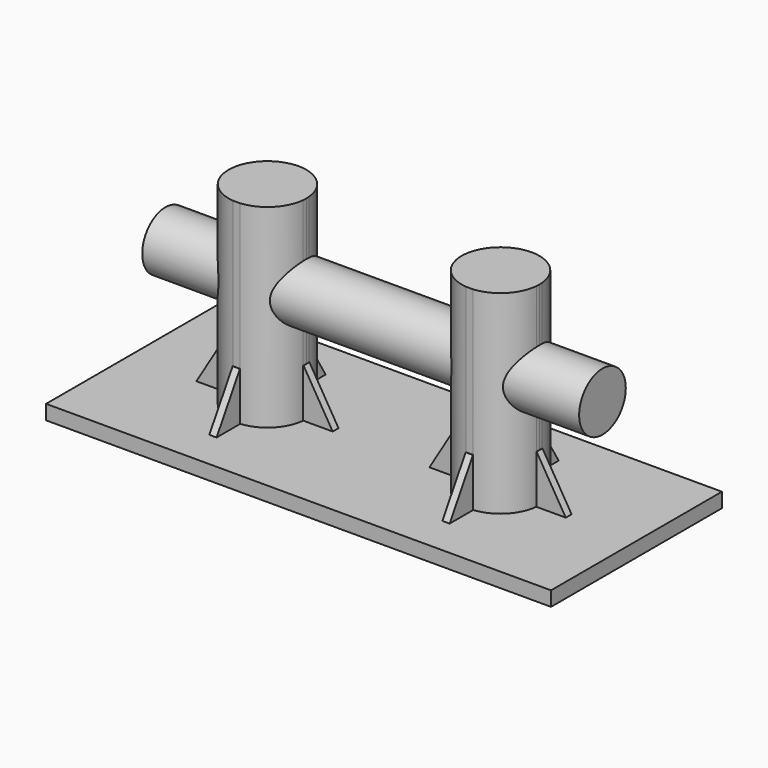
from build123d import *

# Parameters (mm, degrees)
F0_W          = 52
F0_H          = 22
F1_DEPTH      = 1.5
F2_DEPTH      = 20
F2_DEPTH_BACK = 5
F3_DEPTH      = 5
F3_DEPTH_BACK = 5
F4_SIZE2      = 3
F4_SIZE       = 5
F4_2_SIZE2    = 3
F4_2_SIZE     = 5
F4_3_SIZE2    = 3
F4_3_SIZE     = 5
F4_4_SIZE2    = 3
F4_4_SIZE     = 5
F5_SIZE2      = 3.5
F5_SIZE       = 3
F5_2_SIZE2    = 3.5
F5_2_SIZE     = 3
F5_3_SIZE2    = 3.5
F5_3_SIZE     = 3
F5_4_SIZE2    = 3.5
F5_4_SIZE     = 3
F6_SIZE2      = 3
F6_SIZE       = 3.5
F6_2_SIZE2    = 3
F6_2_SIZE     = 3.5
F6_3_SIZE2    = 3
F6_3_SIZE     = 3.5
F6_4_SIZE2    = 3
F6_4_SIZE     = 3.5
F7_SIZE2      = 5
F7_SIZE       = 3
F7_2_SIZE2    = 5
F7_2_SIZE     = 3
F7_3_SIZE2    = 5
F7_3_SIZE     = 3
F7_4_SIZE2    = 5
F7_4_SIZE     = 3
F8_R          = 3
F9_DEPTH      = 22.5


with BuildPart() as f1:
    # F0 (on Top) → F1 (new body)
    with BuildSketch(Plane.XY):
        Rectangle(F0_W, F0_H)
        with BuildLine():
            Line((-4.9823830805, 0.375), (-4.9823830805, 0))
            Line((-4.9823830805, 0), (-4.9823830805, -0.375))
            Line((-4.9823830805, -0.375), (-8.0176169195, -0.375))
            ThreePointArc((-8.0176169195, -0.375), (-9.1715728753, -2.8284271247), (-11.625, -3.9823830805))
            Line((-11.625, -3.9823830805), (-11.625, -7.0176169195))
            Line((-11.625, -7.0176169195), (-12.375, -7.0176169195))
            Line((-12.375, -7.0176169195), (-12.375, -3.9823830805))
            ThreePointArc((-12.375, -3.9823830805), (-14.8284271247, -2.8284271247), (-15.9823830805, -0.375))
            Line((-15.9823830805, -0.375), (-19.0176169195, -0.375))
            Line((-19.0176169195, -0.375), (-19.0176169195, 0.375))
            Line((-19.0176169195, 0.375), (-15.9823830805, 0.375))
            ThreePointArc((-15.9823830805, 0.375), (-14.8284271247, 2.8284271247), (-12.375, 3.9823830805))
            Line((-12.375, 3.9823830805), (-12.375, 7.0176169195))
            Line((-12.375, 7.0176169195), (-11.625, 7.0176169195))
            Line((-11.625, 7.0176169195), (-11.625, 3.9823830805))
            ThreePointArc((-11.625, 3.9823830805), (-9.1715728753, 2.8284271247), (-8.0176169195, 0.375))
            Line((-8.0176169195, 0.375), (-4.9823830805, 0.375))
        make_face(mode=Mode.SUBTRACT)
        with BuildLine():
            Line((4.9823830805, -0.375), (4.9823830805, 0))
            Line((4.9823830805, 0), (4.9823830805, 0.375))
            Line((4.9823830805, 0.375), (8.0176169195, 0.375))
            ThreePointArc((8.0176169195, 0.375), (9.1715728753, 2.8284271247), (11.625, 3.9823830805))
            Line((11.625, 3.9823830805), (11.625, 7.0176169195))
            Line((11.625, 7.0176169195), (12.375, 7.0176169195))
            Line((12.375, 7.0176169195), (12.375, 3.9823830805))
            ThreePointArc((12.375, 3.9823830805), (14.8284271247, 2.8284271247), (15.9823830805, 0.375))
            Line((15.9823830805, 0.375), (19.0176169195, 0.375))
            Line((19.0176169195, 0.375), (19.0176169195, -0.375))
            Line((19.0176169195, -0.375), (15.9823830805, -0.375))
            ThreePointArc((15.9823830805, -0.375), (14.8284271247, -2.8284271247), (12.375, -3.9823830805))
            Line((12.375, -3.9823830805), (12.375, -7.0176169195))
            Line((12.375, -7.0176169195), (11.625, -7.0176169195))
            Line((11.625, -7.0176169195), (11.625, -3.9823830805))
            ThreePointArc((11.625, -3.9823830805), (9.1715728753, -2.8284271247), (8.0176169195, -0.375))
            Line((8.0176169195, -0.375), (4.9823830805, -0.375))
        make_face(mode=Mode.SUBTRACT)
    extrude(amount=-F1_DEPTH)

    # F0 (on Top) → F2 (join, two sides)
    with BuildSketch(Plane.XY) as f2_sk:
        with BuildLine():
            ThreePointArc((-8.0176169195, -0.375), (-8.0044066572, -0.1877067899), (-8, 0))
            ThreePointArc((-8, 0), (-8.0044066572, 0.1877067899), (-8.0176169195, 0.375))
            ThreePointArc((-8.0176169195, 0.375), (-9.1715728753, 2.8284271247), (-11.625, 3.9823830805))
            ThreePointArc((-11.625, 3.9823830805), (-12, 4), (-12.375, 3.9823830805))
            ThreePointArc((-12.375, 3.9823830805), (-14.8284271247, 2.8284271247), (-15.9823830805, 0.375))
            ThreePointArc((-15.9823830805, 0.375), (-16, 0), (-15.9823830805, -0.375))
            ThreePointArc((-15.9823830805, -0.375), (-14.8284271247, -2.8284271247), (-12.375, -3.9823830805))
            Line((-12.375, -3.9823830805), (-11.625, -3.9823830805))
            ThreePointArc((-11.625, -3.9823830805), (-9.1715728753, -2.8284271247), (-8.0176169195, -0.375))
        make_face()
        with BuildLine():
            ThreePointArc((8.0176169195, 0.375), (8.0044066572, 0.1877067899), (8, 0))
            ThreePointArc((8, 0), (8.0044066572, -0.1877067899), (8.0176169195, -0.375))
            ThreePointArc((8.0176169195, -0.375), (9.1715728753, -2.8284271247), (11.625, -3.9823830805))
            Line((11.625, -3.9823830805), (12.375, -3.9823830805))
            ThreePointArc((12.375, -3.9823830805), (14.8284271247, -2.8284271247), (15.9823830805, -0.375))
            ThreePointArc((15.9823830805, -0.375), (15.9955933428, -0.1877067899), (16, 0))
            ThreePointArc((16, 0), (15.9955933428, 0.1877067899), (15.9823830805, 0.375))
            ThreePointArc((15.9823830805, 0.375), (14.8284271247, 2.8284271247), (12.375, 3.9823830805))
            ThreePointArc((12.375, 3.9823830805), (12, 4), (11.625, 3.9823830805))
            ThreePointArc((11.625, 3.9823830805), (9.1715728753, 2.8284271247), (8.0176169195, 0.375))
        make_face()
    extrude(amount=F2_DEPTH)
    extrude(f2_sk.sketch, amount=-F2_DEPTH_BACK)

    # F8 (on Right) → F9 (join, symmetric)
    with BuildSketch(Plane.YZ):
        with Locations((0, 11.5)):
            Circle(F8_R)
    extrude(amount=F9_DEPTH, both=True)


with BuildPart() as f3:
    # F0 (on Top) → F3 (new body, two sides)
    with BuildSketch(Plane.XY) as f3_sk:
        with BuildLine():
            ThreePointArc((-12.375, 3.9823830805), (-12, 4), (-11.625, 3.9823830805))
            Line((-11.625, 3.9823830805), (-11.625, 7.0176169195))
            Line((-11.625, 7.0176169195), (-12.375, 7.0176169195))
            Line((-12.375, 7.0176169195), (-12.375, 3.9823830805))
        make_face()
    extrude(amount=F3_DEPTH)
    extrude(f3_sk.sketch, amount=-F3_DEPTH_BACK)

    # F4#4
    f4_4_edges = [f3.edges().sort_by_distance(p)[0] for p in [
        (-12, 7.017617, 5),
    ]]
    f4_4_side = f3.faces().sort_by_distance((-12, 7.017617, 0))[0]
    chamfer(f4_4_edges, length=F4_4_SIZE, length2=F4_4_SIZE2, reference=f4_4_side)

    # F5
    f5_edges = [f3.edges().sort_by_distance(p)[0] for p in [
        (-12, 7.017617, -5),
    ]]
    f5_side = f3.faces().sort_by_distance((-12, 5.50587, -5))[0]
    chamfer(f5_edges, length=F5_SIZE, length2=F5_SIZE2, reference=f5_side)


with BuildPart() as f3b:
    # F0 (on Top) → F3, piece 2 (new body, two sides)
    with BuildSketch(Plane.XY) as f3_2_sk:
        with BuildLine():
            Line((-8, 0), (-4.9823830805, 0))
            Line((-4.9823830805, 0), (-4.9823830805, 0.375))
            Line((-4.9823830805, 0.375), (-8.0176169195, 0.375))
            ThreePointArc((-8.0176169195, 0.375), (-8.0044066572, 0.1877067899), (-8, 0))
        make_face()
        with BuildLine():
            Line((-4.9823830805, -0.375), (-4.9823830805, 0))
            Line((-4.9823830805, 0), (-8, 0))
            ThreePointArc((-8, 0), (-8.0044066572, -0.1877067899), (-8.0176169195, -0.375))
            Line((-8.0176169195, -0.375), (-4.9823830805, -0.375))
        make_face()
    extrude(amount=F3_DEPTH)
    extrude(f3_2_sk.sketch, amount=-F3_DEPTH_BACK)

    # F4#2
    f4_2_edges = [f3b.edges().sort_by_distance(p)[0] for p in [
        (-4.982383, 0, 5),
    ]]
    f4_2_side = f3b.faces().sort_by_distance((-4.982383, 0, 0))[0]
    chamfer(f4_2_edges, length=F4_2_SIZE, length2=F4_2_SIZE2, reference=f4_2_side)

    # F5#4
    f5_4_edges = [f3b.edges().sort_by_distance(p)[0] for p in [
        (-4.982383, 0, -5),
    ]]
    f5_4_side = f3b.faces().sort_by_distance((-6.49413, 0, -5))[0]
    chamfer(f5_4_edges, length=F5_4_SIZE, length2=F5_4_SIZE2, reference=f5_4_side)


with BuildPart() as f3c:
    # F0 (on Top) → F3, piece 3 (new body, two sides)
    with BuildSketch(Plane.XY) as f3_3_sk:
        with BuildLine():
            Line((-11.625, -7.0176169195), (-11.625, -3.9823830805))
            ThreePointArc((-11.625, -3.9823830805), (-11.8122932101, -3.9955933428), (-12, -4))
            ThreePointArc((-12, -4), (-12.1877067899, -3.9955933428), (-12.375, -3.9823830805))
            Line((-12.375, -3.9823830805), (-12.375, -7.0176169195))
            Line((-12.375, -7.0176169195), (-11.625, -7.0176169195))
        make_face()
    extrude(amount=F3_DEPTH)
    extrude(f3_3_sk.sketch, amount=-F3_DEPTH_BACK)

    # F4
    f4_edges = [f3c.edges().sort_by_distance(p)[0] for p in [
        (-12, -7.017617, 5),
    ]]
    f4_side = f3c.faces().sort_by_distance((-12, -7.017617, 0))[0]
    chamfer(f4_edges, length=F4_SIZE, length2=F4_SIZE2, reference=f4_side)

    # F5#3
    f5_3_edges = [f3c.edges().sort_by_distance(p)[0] for p in [
        (-12, -7.017617, -5),
    ]]
    f5_3_side = f3c.faces().sort_by_distance((-12, -5.50587, -5))[0]
    chamfer(f5_3_edges, length=F5_3_SIZE, length2=F5_3_SIZE2, reference=f5_3_side)


with BuildPart() as f3d:
    # F0 (on Top) → F3, piece 4 (new body, two sides)
    with BuildSketch(Plane.XY) as f3_4_sk:
        with BuildLine():
            ThreePointArc((-15.9823830805, -0.375), (-16, 0), (-15.9823830805, 0.375))
            Line((-15.9823830805, 0.375), (-19.0176169195, 0.375))
            Line((-19.0176169195, 0.375), (-19.0176169195, -0.375))
            Line((-19.0176169195, -0.375), (-15.9823830805, -0.375))
        make_face()
    extrude(amount=F3_DEPTH)
    extrude(f3_4_sk.sketch, amount=-F3_DEPTH_BACK)

    # F4#3
    f4_3_edges = [f3d.edges().sort_by_distance(p)[0] for p in [
        (-19.017617, 0, 5),
    ]]
    f4_3_side = f3d.faces().sort_by_distance((-19.017617, 0, 0))[0]
    chamfer(f4_3_edges, length=F4_3_SIZE, length2=F4_3_SIZE2, reference=f4_3_side)

    # F5#2
    f5_2_edges = [f3d.edges().sort_by_distance(p)[0] for p in [
        (-19.017617, 0, -5),
    ]]
    f5_2_side = f3d.faces().sort_by_distance((-17.50587, 0, -5))[0]
    chamfer(f5_2_edges, length=F5_2_SIZE, length2=F5_2_SIZE2, reference=f5_2_side)


with BuildPart() as f3e:
    # F0 (on Top) → F3, piece 5 (new body, two sides)
    with BuildSketch(Plane.XY) as f3_5_sk:
        with BuildLine():
            Line((4.9823830805, 0.375), (4.9823830805, 0))
            Line((4.9823830805, 0), (8, 0))
            ThreePointArc((8, 0), (8.0044066572, 0.1877067899), (8.0176169195, 0.375))
            Line((8.0176169195, 0.375), (4.9823830805, 0.375))
        make_face()
        with BuildLine():
            Line((8, 0), (4.9823830805, 0))
            Line((4.9823830805, 0), (4.9823830805, -0.375))
            Line((4.9823830805, -0.375), (8.0176169195, -0.375))
            ThreePointArc((8.0176169195, -0.375), (8.0044066572, -0.1877067899), (8, 0))
        make_face()
    extrude(amount=F3_DEPTH)
    extrude(f3_5_sk.sketch, amount=-F3_DEPTH_BACK)

    # F6#3
    f6_3_edges = [f3e.edges().sort_by_distance(p)[0] for p in [
        (4.982383, 0, -5),
    ]]
    f6_3_side = f3e.faces().sort_by_distance((4.982383, 0, 0))[0]
    chamfer(f6_3_edges, length=F6_3_SIZE, length2=F6_3_SIZE2, reference=f6_3_side)

    # F7#2
    f7_2_edges = [f3e.edges().sort_by_distance(p)[0] for p in [
        (4.982383, 0, 5),
    ]]
    f7_2_side = f3e.faces().sort_by_distance((6.49413, 0, 5))[0]
    chamfer(f7_2_edges, length=F7_2_SIZE, length2=F7_2_SIZE2, reference=f7_2_side)


with BuildPart() as f3f:
    # F0 (on Top) → F3, piece 6 (new body, two sides)
    with BuildSketch(Plane.XY) as f3_6_sk:
        with BuildLine():
            ThreePointArc((12, -4), (11.8122932101, -3.9955933428), (11.625, -3.9823830805))
            Line((11.625, -3.9823830805), (11.625, -7.0176169195))
            Line((11.625, -7.0176169195), (12.375, -7.0176169195))
            Line((12.375, -7.0176169195), (12.375, -3.9823830805))
            ThreePointArc((12.375, -3.9823830805), (12.1877067899, -3.9955933428), (12, -4))
        make_face()
    extrude(amount=F3_DEPTH)
    extrude(f3_6_sk.sketch, amount=-F3_DEPTH_BACK)

    # F6#4
    f6_4_edges = [f3f.edges().sort_by_distance(p)[0] for p in [
        (12, -7.017617, -5),
    ]]
    f6_4_side = f3f.faces().sort_by_distance((12, -7.017617, 0))[0]
    chamfer(f6_4_edges, length=F6_4_SIZE, length2=F6_4_SIZE2, reference=f6_4_side)

    # F7
    f7_edges = [f3f.edges().sort_by_distance(p)[0] for p in [
        (12, -7.017617, 5),
    ]]
    f7_side = f3f.faces().sort_by_distance((12, -5.50587, 5))[0]
    chamfer(f7_edges, length=F7_SIZE, length2=F7_SIZE2, reference=f7_side)


with BuildPart() as f3g:
    # F0 (on Top) → F3, piece 7 (new body, two sides)
    with BuildSketch(Plane.XY) as f3_7_sk:
        with BuildLine():
            Line((19.0176169195, 0.375), (15.9823830805, 0.375))
            ThreePointArc((15.9823830805, 0.375), (15.9955933428, 0.1877067899), (16, 0))
            ThreePointArc((16, 0), (15.9955933428, -0.1877067899), (15.9823830805, -0.375))
            Line((15.9823830805, -0.375), (19.0176169195, -0.375))
            Line((19.0176169195, -0.375), (19.0176169195, 0.375))
        make_face()
    extrude(amount=F3_DEPTH)
    extrude(f3_7_sk.sketch, amount=-F3_DEPTH_BACK)

    # F6
    f6_edges = [f3g.edges().sort_by_distance(p)[0] for p in [
        (19.017617, 0, -5),
    ]]
    f6_side = f3g.faces().sort_by_distance((19.017617, 0, 0))[0]
    chamfer(f6_edges, length=F6_SIZE, length2=F6_SIZE2, reference=f6_side)

    # F7#3
    f7_3_edges = [f3g.edges().sort_by_distance(p)[0] for p in [
        (19.017617, 0, 5),
    ]]
    f7_3_side = f3g.faces().sort_by_distance((17.50587, 0, 5))[0]
    chamfer(f7_3_edges, length=F7_3_SIZE, length2=F7_3_SIZE2, reference=f7_3_side)


with BuildPart() as f3h:
    # F0 (on Top) → F3, piece 8 (new body, two sides)
    with BuildSketch(Plane.XY) as f3_8_sk:
        with BuildLine():
            Line((11.625, 7.0176169195), (11.625, 3.9823830805))
            ThreePointArc((11.625, 3.9823830805), (12, 4), (12.375, 3.9823830805))
            Line((12.375, 3.9823830805), (12.375, 7.0176169195))
            Line((12.375, 7.0176169195), (11.625, 7.0176169195))
        make_face()
    extrude(amount=F3_DEPTH)
    extrude(f3_8_sk.sketch, amount=-F3_DEPTH_BACK)

    # F6#2
    f6_2_edges = [f3h.edges().sort_by_distance(p)[0] for p in [
        (12, 7.017617, -5),
    ]]
    f6_2_side = f3h.faces().sort_by_distance((12, 7.017617, 0))[0]
    chamfer(f6_2_edges, length=F6_2_SIZE, length2=F6_2_SIZE2, reference=f6_2_side)

    # F7#4
    f7_4_edges = [f3h.edges().sort_by_distance(p)[0] for p in [
        (12, 7.017617, 5),
    ]]
    f7_4_side = f3h.faces().sort_by_distance((12, 5.50587, 5))[0]
    chamfer(f7_4_edges, length=F7_4_SIZE, length2=F7_4_SIZE2, reference=f7_4_side)


solid = Compound([f1.part, f3.part, f3b.part, f3c.part, f3d.part, f3e.part, f3f.part, f3g.part, f3h.part])
